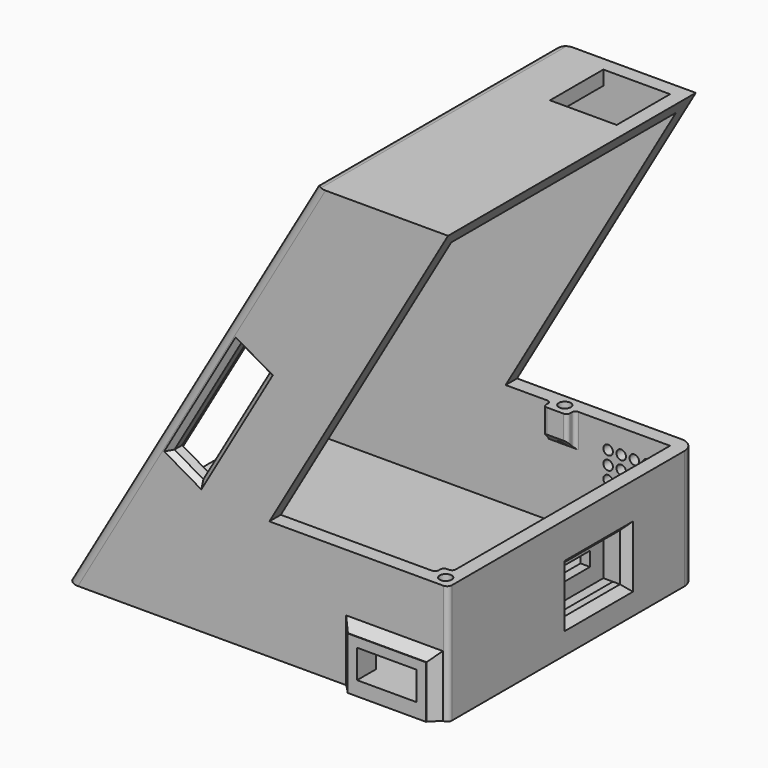
from build123d import *

# Parameters (mm, degrees)
SKETCH_W                        = 80
SKETCH_H                        = 65
PAD_DEPTH                       = 90
POCKET_DEPTH                    = 65
THICKNESS_T                     = -3
SKETCH002_W                     = 56
SKETCH002_H                     = 79
POCKET001_DEPTH                 = 5
SKETCH003_W                     = 14
SKETCH003_H                     = 14
POCKET002_DEPTH                 = 5
POCKET003_DEPTH                 = 5
SKETCH005_R                     = 1
POCKET004_DEPTH                 = 5
SKETCH005_LINEARPATTERN_2_R     = 1
POCKET004_LINEARPATTERN_2_DEPTH = 5
SKETCH005_LINEARPATTERN_3_R     = 1
POCKET004_LINEARPATTERN_3_DEPTH = 5
SKETCH005_LINEARPATTERN_4_R     = 1
POCKET004_LINEARPATTERN_4_DEPTH = 5
SKETCH005_LINEARPATTERN_5_R     = 1
POCKET004_LINEARPATTERN_5_DEPTH = 5
LINEARPATTERN001_COUNT          = 6
LINEARPATTERN001_PITCH          = 2.8
SKETCH006_W                     = 15
SKETCH006_H                     = 10
POCKET005_DEPTH                 = 5
SKETCH007_W                     = 12.5
SKETCH007_H                     = 6
POCKET006_DEPTH                 = 5
PAD001_DEPTH                    = 4
SKETCH009_W                     = 15
SKETCH009_H                     = 10
PAD002_DEPTH                    = 2
SKETCH010_W                     = 8
SKETCH010_H                     = 3
POCKET007_DEPTH                 = 5
CHAMFER_SIZE                    = 1.5
CHAMFER001_SIZE                 = 1.5
CHAMFER002_SIZE                 = 1.5
SKETCH011_W                     = 16.5
SKETCH011_H                     = 11
SKETCH011_W_2                   = 12.5
SKETCH011_H_2                   = 6
PAD003_DEPTH                    = 2
CHAMFER003_SIZE                 = 1.9
CHAMFER004_SIZE                 = 1
FILLET_R                        = 2
FILLET001_R                     = 3
FILLET002_R                     = 1
SKETCH012_W                     = 2
SKETCH012_H                     = 2
SKETCH012_W_2                   = 5
PAD004_DEPTH                    = 5
CHAMFER005_SIZE                 = 1.99
SKETCH013_R                     = 1.25
POCKET008_DEPTH                 = 7
FILLET003_R                     = 0.75


with BuildPart() as part:
    # Sketch → Pad (new body)
    with BuildSketch(Plane.XY):
        with Locations((20.71249, -6.444686)):
            Rectangle(SKETCH_W, SKETCH_H)
    extrude(amount=PAD_DEPTH)

    # Sketch001 (on Face2 of Pad) → Pocket (cut)
    with BuildSketch(Plane.XZ.offset(38.944686)):
        Polygon((-19.28751, 0), (32.68222, 90), (-19.28751, 90), align=None)
        Polygon((60.71249, 90), (23.196161, 25.019797), (60.71249, 25.019797), align=None)
    extrude(amount=-POCKET_DEPTH, mode=Mode.SUBTRACT)

    # Thickness
    thickness_openings = [part.faces().sort_by_distance(p)[0] for p in [
        (41.954326, -6.444686, 57.509898),
        (41.954326, -6.444686, 25.019797),
    ]]
    offset(amount=THICKNESS_T, openings=thickness_openings)

    # Sketch002 → Pocket001 (cut)
    with BuildSketch(Plane(origin=(-14.46449, 0, 8.352396), x_dir=(0, -1, 0), z_dir=(-0.865991, 0, 0.500059))):
        with Locations((6.444686, 44.855103)):
            Rectangle(SKETCH002_W, SKETCH002_H)
    extrude(amount=-POCKET001_DEPTH, mode=Mode.SUBTRACT)

    # Sketch003 (on Face6 of Pocket001) → Pocket002 (cut)
    with BuildSketch(Plane.XY.offset(90)):
        with Locations((50.71249, 16.055314)):
            Rectangle(SKETCH003_W, SKETCH003_H)
    extrude(amount=-POCKET002_DEPTH, mode=Mode.SUBTRACT)

    # Sketch004 (on Face3 of Pocket002) → Pocket003 (cut)
    with BuildSketch(Plane.XZ.offset(38.944686)):
        Polygon((16.483818, 55.393683), (2.483821, 31.14497), (8.545998, 27.644969), (22.545995, 51.893681), align=None)
    extrude(amount=-POCKET003_DEPTH, mode=Mode.SUBTRACT)

    # Sketch005 (on Face5 of Pocket002) → Pocket004 (cut)
    with BuildSketch(Plane(origin=(0, 26.055314, 0), x_dir=(-1, 0, 0), z_dir=(0, 1, 0))):
        with Locations((-55.71249, 20)):
            Circle(SKETCH005_R)
    pocket004 = extrude(amount=-POCKET004_DEPTH, mode=Mode.SUBTRACT)

    # Sketch005 LinearPattern 2 → Pocket004 LinearPattern 2 (cut)
    with BuildSketch(Plane(origin=(-2.75, 26.055314, 0), x_dir=(-1, 0, 0), z_dir=(0, 1, 0))):
        with Locations((-55.71249, 20)):
            Circle(SKETCH005_LINEARPATTERN_2_R)
    pocket004_linearpattern_2 = extrude(amount=-POCKET004_LINEARPATTERN_2_DEPTH, mode=Mode.SUBTRACT)

    # Sketch005 LinearPattern 3 → Pocket004 LinearPattern 3 (cut)
    with BuildSketch(Plane(origin=(-5.5, 26.055314, 0), x_dir=(-1, 0, 0), z_dir=(0, 1, 0))):
        with Locations((-55.71249, 20)):
            Circle(SKETCH005_LINEARPATTERN_3_R)
    pocket004_linearpattern_3 = extrude(amount=-POCKET004_LINEARPATTERN_3_DEPTH, mode=Mode.SUBTRACT)

    # Sketch005 LinearPattern 4 → Pocket004 LinearPattern 4 (cut)
    with BuildSketch(Plane(origin=(-8.25, 26.055314, 0), x_dir=(-1, 0, 0), z_dir=(0, 1, 0))):
        with Locations((-55.71249, 20)):
            Circle(SKETCH005_LINEARPATTERN_4_R)
    pocket004_linearpattern_4 = extrude(amount=-POCKET004_LINEARPATTERN_4_DEPTH, mode=Mode.SUBTRACT)

    # Sketch005 LinearPattern 5 → Pocket004 LinearPattern 5 (cut)
    with BuildSketch(Plane(origin=(-11, 26.055314, 0), x_dir=(-1, 0, 0), z_dir=(0, 1, 0))):
        with Locations((-55.71249, 20)):
            Circle(SKETCH005_LINEARPATTERN_5_R)
    pocket004_linearpattern_5 = extrude(amount=-POCKET004_LINEARPATTERN_5_DEPTH, mode=Mode.SUBTRACT)

    # LinearPattern001: Pocket004, Pocket004 LinearPattern 2, Pocket004 LinearPattern 3, Pocket004 LinearPattern 4, Pocket004 LinearPattern 5 ×6
    with Locations(*[(0, 0, -i * LINEARPATTERN001_PITCH) for i in range(1, LINEARPATTERN001_COUNT)]):
        add(pocket004, mode=Mode.SUBTRACT)
        add(pocket004_linearpattern_2, mode=Mode.SUBTRACT)
        add(pocket004_linearpattern_3, mode=Mode.SUBTRACT)
        add(pocket004_linearpattern_4, mode=Mode.SUBTRACT)
        add(pocket004_linearpattern_5, mode=Mode.SUBTRACT)

    # Sketch006 (on Face4 of MultiTransform) → Pocket005 (cut)
    with BuildSketch(Plane.YZ.offset(60.71249)):
        with Locations((0.555314, 11)):
            Rectangle(SKETCH006_W, SKETCH006_H)
    extrude(amount=-POCKET005_DEPTH, mode=Mode.SUBTRACT)

    # Sketch007 (on Face3 of Pocket005) → Pocket006 (cut)
    with BuildSketch(Plane.XZ.offset(38.944686)):
        with Locations((49.46249, 6)):
            Rectangle(SKETCH007_W, SKETCH007_H)
    extrude(amount=-POCKET006_DEPTH, mode=Mode.SUBTRACT)

    # Sketch008 (on Face60 of Pocket006) → Pad001 (join)
    with BuildSketch(Plane(origin=(57.71249, 0, 0), x_dir=(0, -1, 0), z_dir=(-1, 0, 0))):
        Polygon((-10.055314, 18), (-10.055314, 6), (-8.055314, 6), (-8.055314, 16), (6.944686, 16), (6.944686, 6), (8.944686, 6), (8.944686, 18), align=None)
    extrude(amount=PAD001_DEPTH)

    # Sketch009 (on Face65 of Pad001) → Pad002 (join)
    with BuildSketch(Plane(origin=(53.71249, 0, 0), x_dir=(0, -1, 0), z_dir=(-1, 0, 0))):
        with Locations((-0.555314, 11)):
            Rectangle(SKETCH009_W, SKETCH009_H)
    extrude(amount=-PAD002_DEPTH)

    # Sketch010 (on Face63 of Pad002) → Pocket007 (cut)
    with BuildSketch(Plane.YZ.offset(55.71249)):
        with Locations((0.555314, 11)):
            Rectangle(SKETCH010_W, SKETCH010_H)
    extrude(amount=-POCKET007_DEPTH, mode=Mode.SUBTRACT)

    # Chamfer
    chamfer_edges = [part.edges().sort_by_distance(p)[0] for p in [
        (60.71249, 0.555314, 16),
        (60.71249, -6.944686, 11),
        (60.71249, 8.055314, 11),
        (60.71249, 0.555314, 6),
    ]]
    chamfer(chamfer_edges, length=CHAMFER_SIZE)

    # Chamfer001
    chamfer001_edges = [part.edges().sort_by_distance(p)[0] for p in [
        (57.71249, 0.555314, 18),
        (57.71249, -8.944686, 12),
        (57.71249, 10.055314, 12),
    ]]
    chamfer(chamfer001_edges, length=CHAMFER001_SIZE)

    # Chamfer002
    chamfer002_edges = [part.edges().sort_by_distance(p)[0] for p in [
        (53.71249, 10.055314, 12),
        (53.71249, -8.944686, 12),
        (53.71249, 0.555314, 18),
    ]]
    chamfer(chamfer002_edges, length=CHAMFER002_SIZE)

    # Sketch011 (on Face32 of Chamfer002) → Pad003 (join)
    with BuildSketch(Plane.XZ.offset(38.944686)):
        with Locations((49.46249, 5.5)):
            Rectangle(SKETCH011_W, SKETCH011_H)
        with Locations((49.46249, 6)):
            Rectangle(SKETCH011_W_2, SKETCH011_H_2, mode=Mode.SUBTRACT)
    extrude(amount=PAD003_DEPTH)

    # Chamfer003
    chamfer003_edges = [part.edges().sort_by_distance(p)[0] for p in [
        (57.71249, -38.944686, 5.5),
        (49.46249, -38.944686, 11),
        (41.21249, -38.944686, 5.5),
    ]]
    chamfer(chamfer003_edges, length=CHAMFER003_SIZE)

    # Chamfer004
    chamfer004_edges = [part.edges().sort_by_distance(p)[0] for p in [
        (19.514907, -38.944686, 53.643682),
        (9.48382, -38.944686, 43.269326),
        (15.545997, -38.944686, 39.769325),
        (5.514909, -38.944686, 29.394969),
    ]]
    chamfer(chamfer004_edges, length=CHAMFER004_SIZE)

    # Fillet
    fillet_edges = [part.edges().sort_by_distance(p)[0] for p in [
        (6.697355, 26.055314, 45),
        (32.68222, -6.444686, 90),
        (6.697355, -38.944686, 45),
    ]]
    fillet(fillet_edges, radius=FILLET_R)

    # Fillet001
    fillet001_edges = [part.edges().sort_by_distance(p)[0] for p in [
        (60.71249, 26.055314, 12.509898),
    ]]
    fillet(fillet001_edges, radius=FILLET001_R)

    # Fillet002
    fillet002_edges = [part.edges().sort_by_distance(p)[0] for p in [
        (60.71249, -38.944686, 12.509898),
    ]]
    fillet(fillet002_edges, radius=FILLET002_R)

    # Sketch012 → Pad004 (join)
    with BuildSketch(Plane.XY.offset(25.019797)):
        with Locations((56.71249, -34.944686)):
            Rectangle(SKETCH012_W, SKETCH012_H)
        with Locations((35.21249, 22.055314)):
            Rectangle(SKETCH012_W_2, SKETCH012_H)
    extrude(amount=-PAD004_DEPTH)

    # Chamfer005
    chamfer005_edges = [part.edges().sort_by_distance(p)[0] for p in [
        (35.21249, 23.055314, 20.019797),
        (56.71249, -35.944686, 20.019797),
    ]]
    chamfer(chamfer005_edges, length=CHAMFER005_SIZE)

    # Sketch013 (on Face8 of Chamfer005) → Pocket008 (cut)
    with BuildSketch(Plane.XY.offset(25.019797)):
        with Locations((58.21249, -36.444686)):
            Circle(SKETCH013_R)
        with Locations((35.21249, 23.555314)):
            Circle(SKETCH013_R)
    extrude(amount=-POCKET008_DEPTH, mode=Mode.SUBTRACT)

    # Fillet003
    fillet003_edges = [part.edges().sort_by_distance(p)[0] for p in [
        (37.71249, 21.055314, 22.519797),
        (37.71249, 23.055314, 22.519797),
        (37.71249, 23.055314, 19.024797),
        (32.71249, 21.055314, 22.519797),
        (32.71249, 23.055314, 22.519797),
        (32.71249, 23.055314, 19.024797),
        (55.71249, -33.944686, 22.519797),
        (57.71249, -33.944686, 22.519797),
        (55.71249, -35.944686, 22.519797),
        (55.71249, -35.944686, 19.024797),
    ]]
    fillet(fillet003_edges, radius=FILLET003_R)


solid = part.part
